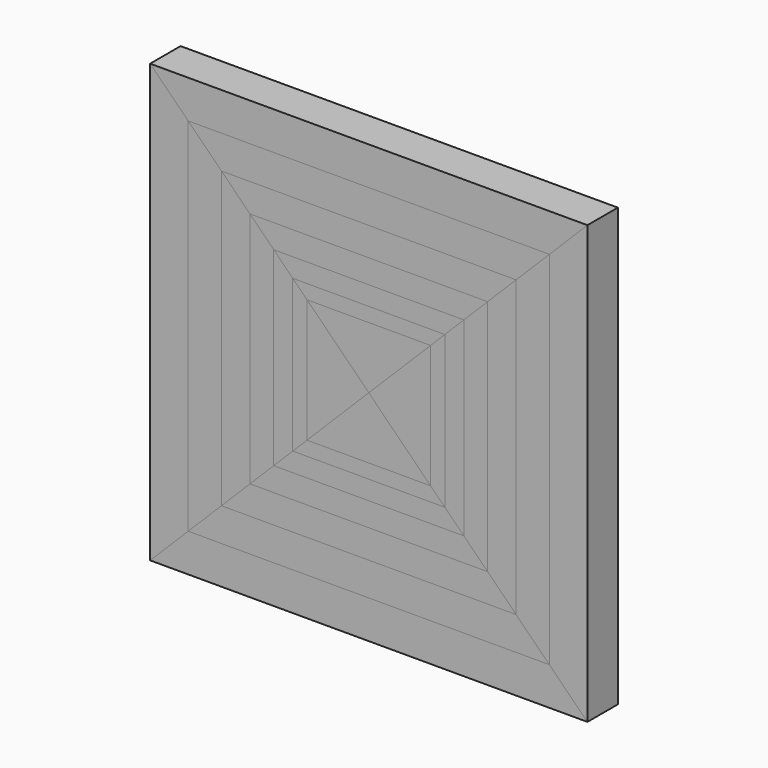
from build123d import *

# Parameters (mm, degrees)
F1_DEPTH = 25.4
F2_DEPTH = 25.4


with BuildPart() as f1:
    # F0 (on Front) → F1 (new body)
    with BuildSketch(Plane.XZ):
        Polygon((120.65, 120.65), (146.05, 146.05), (-146.05, 146.05), (-120.65, 120.65), align=None)
        Polygon((79.375, 79.375), (98.425, 98.425), (-98.425, 98.425), (-79.375, 79.375), align=None)
        Polygon((50.8, 50.8), (63.5, 63.5), (-63.5, 63.5), (-50.8, 50.8), align=None)
        Polygon((0, 0), (41.275, 41.275), (-41.275, 41.275), align=None)
        Polygon((-63.5, -63.5), (63.5, -63.5), (50.8, -50.8), (-50.8, -50.8), align=None)
        Polygon((-41.275, -41.275), (41.275, -41.275), (0, 0), align=None)
        Polygon((-98.425, -98.425), (98.425, -98.425), (79.375, -79.375), (-79.375, -79.375), align=None)
        Polygon((-146.05, -146.05), (146.05, -146.05), (120.65, -120.65), (-120.65, -120.65), align=None)
        Polygon((120.65, -120.65), (120.65, 120.65), (98.425, 98.425), (98.425, -98.425), align=None)
        Polygon((79.375, -79.375), (79.375, 79.375), (63.5, 63.5), (63.5, -63.5), align=None)
        Polygon((-63.5, 63.5), (-79.375, 79.375), (-79.375, -79.375), (-63.5, -63.5), align=None)
        Polygon((-98.425, 98.425), (-120.65, 120.65), (-120.65, -120.65), (-98.425, -98.425), align=None)
        Polygon((50.8, -50.8), (50.8, 50.8), (41.275, 41.275), (41.275, -41.275), align=None)
        Polygon((-41.275, 41.275), (-50.8, 50.8), (-50.8, -50.8), (-41.275, -41.275), align=None)
    extrude(amount=F1_DEPTH)


with BuildPart() as f2:
    # F0 (on Front) → F2 (new body)
    with BuildSketch(Plane.XZ):
        Polygon((98.425, 98.425), (120.65, 120.65), (-120.65, 120.65), (-98.425, 98.425), align=None)
        Polygon((-120.65, 120.65), (-146.05, 146.05), (-146.05, -146.05), (-120.65, -120.65), align=None)
        Polygon((146.05, -146.05), (146.05, 146.05), (120.65, 120.65), (120.65, -120.65), align=None)
        Polygon((98.425, -98.425), (98.425, 98.425), (79.375, 79.375), (79.375, -79.375), align=None)
        Polygon((63.5, 63.5), (79.375, 79.375), (-79.375, 79.375), (-63.5, 63.5), align=None)
        Polygon((-79.375, 79.375), (-98.425, 98.425), (-98.425, -98.425), (-79.375, -79.375), align=None)
        Polygon((-50.8, 50.8), (-63.5, 63.5), (-63.5, -63.5), (-50.8, -50.8), align=None)
        Polygon((41.275, 41.275), (50.8, 50.8), (-50.8, 50.8), (-41.275, 41.275), align=None)
        Polygon((63.5, -63.5), (63.5, 63.5), (50.8, 50.8), (50.8, -50.8), align=None)
        Polygon((41.275, -41.275), (41.275, 41.275), (0, 0), align=None)
        Polygon((0, 0), (-41.275, 41.275), (-41.275, -41.275), align=None)
        Polygon((-50.8, -50.8), (50.8, -50.8), (41.275, -41.275), (-41.275, -41.275), align=None)
        Polygon((-79.375, -79.375), (79.375, -79.375), (63.5, -63.5), (-63.5, -63.5), align=None)
        Polygon((-120.65, -120.65), (120.65, -120.65), (98.425, -98.425), (-98.425, -98.425), align=None)
    extrude(amount=F2_DEPTH)


solid = Compound([f1.part, f2.part])
